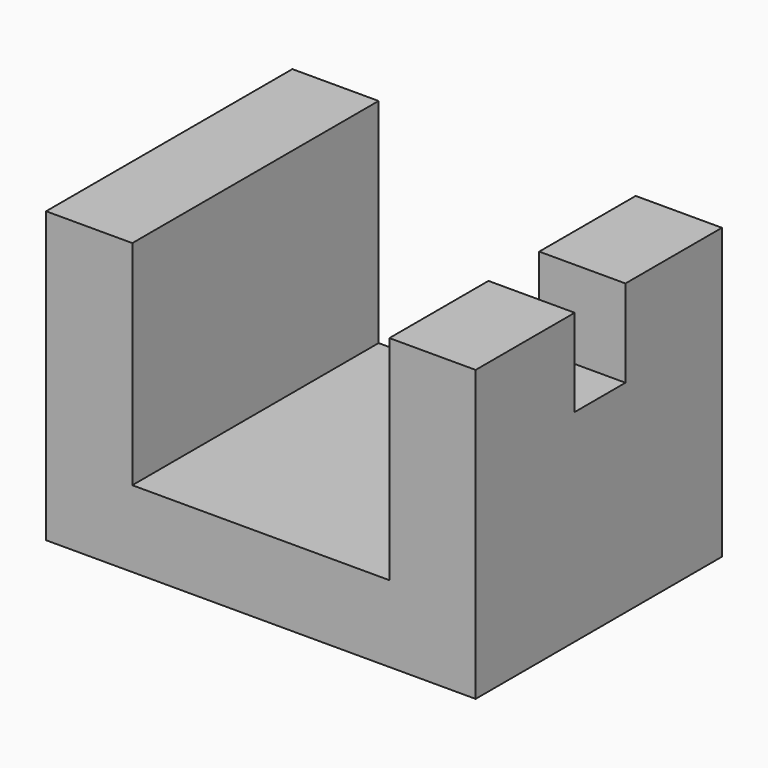
from build123d import *

# Parameters (mm, degrees)
F1_DEPTH = 25.4
F2_W     = 14.229968
F2_H     = 10.471108
F3_DEPTH = 14.424406


with BuildPart() as f1:
    # F0 (on Front) → F1 (new body, symmetric)
    with BuildSketch(Plane.XZ):
        Polygon((-36.380388, 23.492869), (-36.380388, -24.298338), (34.500958, -24.298338), (34.500958, 23.492869), (20.27099, 23.492869), (20.27099, -11.679313), (-22.15042, -11.679313), (-22.15042, 23.492869), align=None)
    extrude(amount=F1_DEPTH, both=True)

    # F2 (on face) → F3 (cut)
    with BuildSketch(Plane.XY.offset(23.492869)):
        with Locations((27.385974, 0.26849)):
            Rectangle(F2_W, F2_H)
    extrude(amount=-F3_DEPTH, mode=Mode.SUBTRACT)


solid = f1.part
